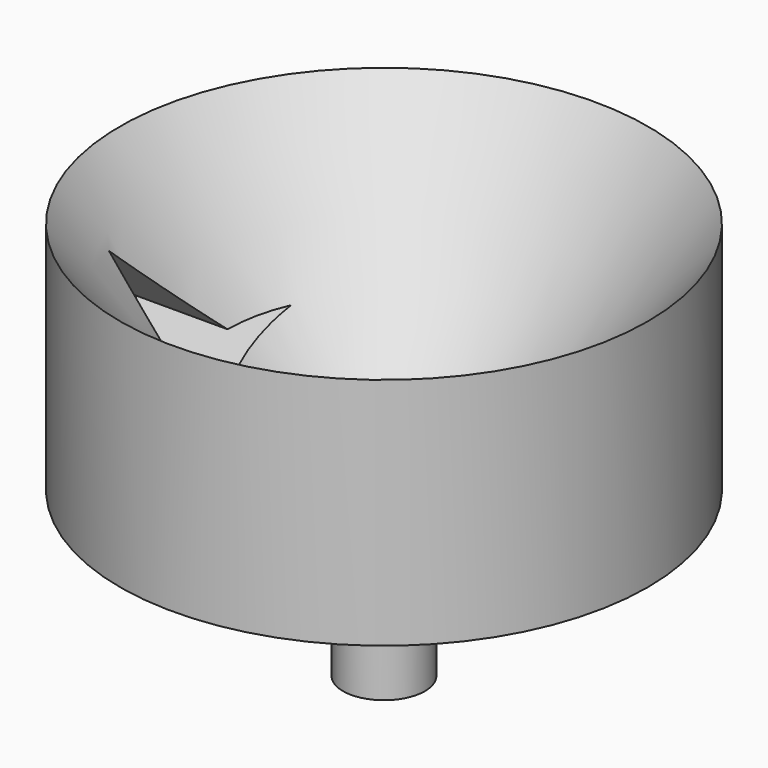
from build123d import *

# Parameters (mm, degrees)
F3_DEPTH = 160.02


with BuildPart() as f1:
    # F0 (on Front) → F1 (revolve)
    with BuildSketch(Plane.XZ):
        Polygon((11.633136, 25.396974), (0, 50.8), (0, 0), (8.89, 0), (8.89, 20.170162), (57.288211, 35.605614), (57.288211, 86.405614), align=None)
    revolve(axis=Axis((0, 0, 25.4), (0, 0, -1)))

    # F2 (on Right) → F3 (cut)
    with BuildSketch(Plane.YZ):
        Polygon((0, 55.20786), (-18.9991, 74.483134), (-18.9991, 44.67614), (13.663266, 55.20786), align=None)
    extrude(amount=-F3_DEPTH, mode=Mode.SUBTRACT)


solid = f1.part
